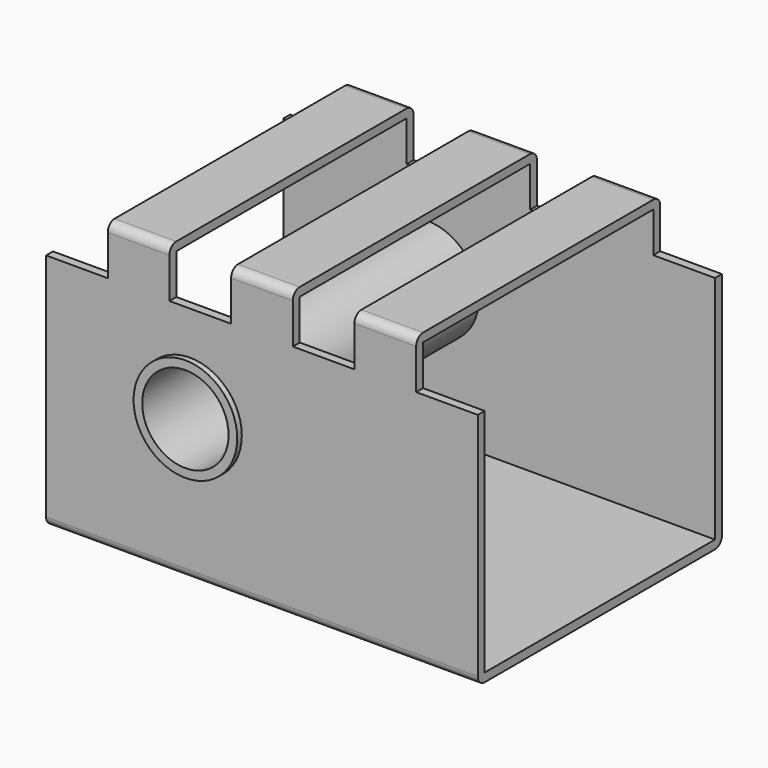
from build123d import *

# Parameters (mm, degrees)
F0_R          = 18
F0_W          = 150
F0_H          = 3
F2_DEPTH      = 110.5
F2_DEPTH_BACK = 4.9
F1_W          = 100
F1_H          = 94
F3_DEPTH      = 192.9
F0_R_2        = 15
F4_DEPTH      = 105
F4_DEPTH_BACK = 5


with BuildPart() as f2:
    # F0 (on Front) → F2 (new body, two sides)
    with BuildSketch(Plane.XZ) as f2_sk:
        Polygon((0, 80), (0, 0), (150, 0), (150, 80), (128.5714285714, 80), (128.5714285714, 103), (107.1428571429, 103), (107.1428571429, 80), (85.7142857143, 80), (85.7142857143, 103), (64.2857142857, 103), (64.2857142857, 80), (42.8571428571, 80), (42.8571428571, 103), (21.4285714286, 103), (21.4285714286, 80), align=None)
        with Locations((50, 47)):
            Circle(F0_R, mode=Mode.SUBTRACT)
        with Locations((75, -1.5)):
            Rectangle(F0_W, F0_H)
    extrude(amount=-F2_DEPTH)
    extrude(f2_sk.sketch, amount=F2_DEPTH_BACK)

    # F1 (on Right) → F3 (intersect)
    with BuildSketch(Plane.YZ):
        with BuildLine():
            Line((100, 97), (0, 97))
            ThreePointArc((0, 97), (-2.1213203436, 96.1213203436), (-3, 94))
            Line((-3, 94), (-3, 0))
            ThreePointArc((-3, 0), (-2.1213203436, -2.1213203436), (0, -3))
            Line((0, -3), (100, -3))
            ThreePointArc((100, -3), (102.1213203436, -2.1213203436), (103, 0))
            Line((103, 0), (103, 94))
            ThreePointArc((103, 94), (102.1213203436, 96.1213203436), (100, 97))
        make_face()
        with Locations((50, 47)):
            Rectangle(F1_W, F1_H, mode=Mode.SUBTRACT)
    extrude(amount=F3_DEPTH, mode=Mode.INTERSECT)

    # F0 (on Front) → F4 (join, two sides)
    with BuildSketch(Plane.XZ) as f4_sk:
        with Locations((50, 47)):
            Circle(F0_R)
        with Locations((50, 47)):
            Circle(F0_R_2, mode=Mode.SUBTRACT)
    extrude(amount=-F4_DEPTH)
    extrude(f4_sk.sketch, amount=F4_DEPTH_BACK)


solid = f2.part
